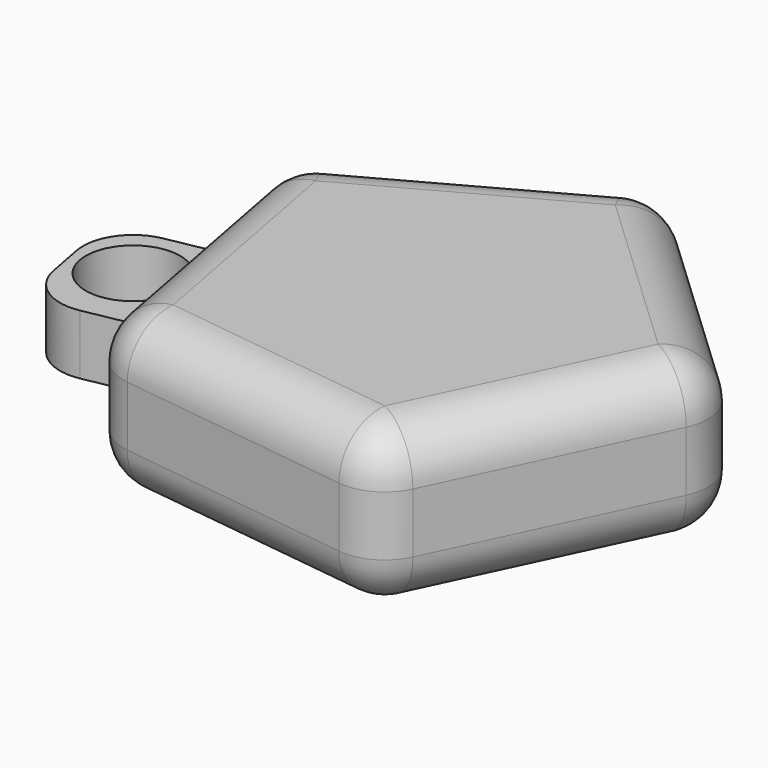
from build123d import *

# Parameters (mm, degrees)
F1_DEPTH = 16.256
F2_R     = 5.08
F3_W     = 14.0684605576
F3_H     = 6.096
F4_DEPTH = 10.668
F5_R     = 5.08
F6_R     = 4.8101644532
F7_DEPTH = 25.4


with BuildPart() as f1:
    # F0 (on Top) → F1 (new body)
    with BuildSketch(Plane.XY):
        Polygon((26.3900562345, 4.9985722308), (3.4010511667, 26.6430787142), (-24.288091016, 11.4677559795), (-18.4119169365, -19.5556157441), (12.9089005512, -23.5537911803), align=None)
    extrude(amount=F1_DEPTH)

    # F2
    f2_edges = [f1.edges().sort_by_distance(p)[0] for p in [
        (-18.411917, -19.555616, 8.128),
        (-2.751508, -21.554703, 0),
        (-2.751508, -21.554703, 16.256),
        (-21.350004, -4.04393, 0),
        (-10.44352, 19.055417, 0),
        (14.895554, 15.820825, 0),
        (19.649478, -9.277609, 0),
        (19.649478, -9.277609, 16.256),
        (14.895554, 15.820825, 16.256),
        (-10.44352, 19.055417, 16.256),
        (-21.350004, -4.04393, 16.256),
        (3.401051, 26.643079, 8.128),
        (-24.288091, 11.467756, 8.128),
        (12.908901, -23.553791, 8.128),
        (26.390056, 4.998572, 8.128),
    ]]
    fillet(f2_edges, radius=F2_R)

    # F3 (on face) → F4 (join)
    with BuildSketch(Plane(origin=(-21.3500039762, -4.0439298823, 0), x_dir=(0.1861022589, -0.9825303808, 0), z_dir=(-0.9825303808, -0.1861022589, 0))):
        with Locations((0.7629252505, 8.128)):
            Rectangle(F3_W, F3_H)
    extrude(amount=F4_DEPTH)

    # F5
    f5_edges = [f1.edges().sort_by_distance(p)[0] for p in [
        (-30.38057, -13.690211, 8.128),
        (-32.998742, 0.132479, 8.128),
    ]]
    fillet(f5_edges, radius=F5_R)

    # F6 (on face) → F7 (cut)
    with BuildSketch(Plane.XY.offset(11.176)):
        with Locations((-26.1089652777, -5.1103131846)):
            Circle(F6_R)
    extrude(amount=-F7_DEPTH, mode=Mode.SUBTRACT)


solid = f1.part
